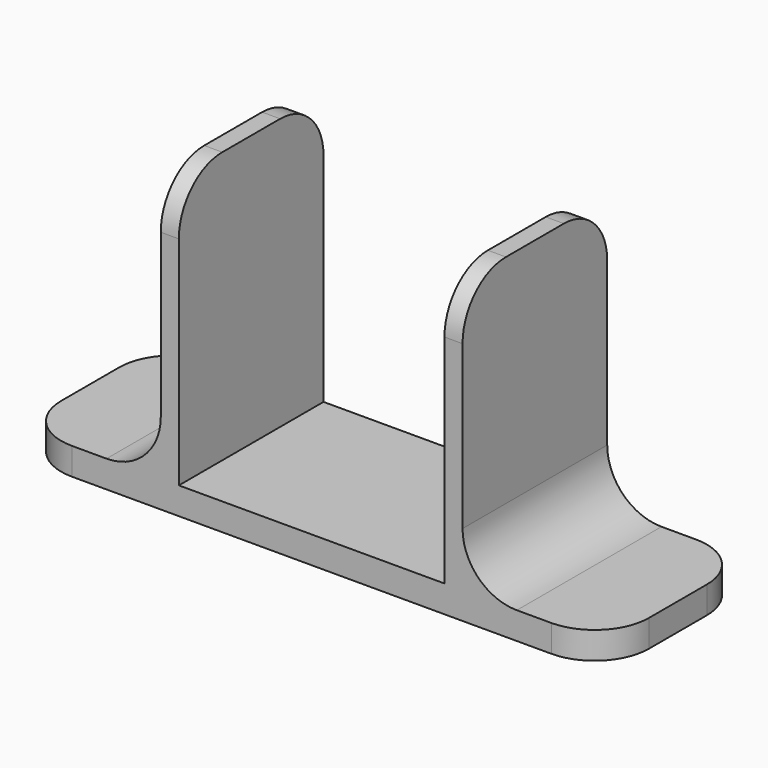
from build123d import *

# Parameters (mm, degrees)
F0_W     = 82.55
F0_H     = 25.4
F1_DEPTH = 3.81
F2_W     = 2.54
F2_H     = 25.4
F3_DEPTH = 38.1
F4_R     = 7.62


with BuildPart() as f1:
    # F0 (on Top) → F1 (new body)
    with BuildSketch(Plane.XY):
        Rectangle(F0_W, F0_H)
    extrude(amount=F1_DEPTH)

    # F2 (on face) → F3 (join)
    with BuildSketch(Plane.XY.offset(3.81)):
        with Locations((-19.923125, 0)):
            Rectangle(F2_W, F2_H)
        with Locations((19.923125, 0)):
            Rectangle(F2_W, F2_H)
    extrude(amount=F3_DEPTH)

    # F4
    f4_edges = [f1.edges().sort_by_distance(p)[0] for p in [
        (-41.275, 12.7, 1.905),
        (-41.275, -12.7, 1.905),
        (41.275, 12.7, 1.905),
        (41.275, -12.7, 1.905),
        (-21.193125, 0, 3.81),
        (21.193125, 0, 3.81),
        (19.923125, 12.7, 41.91),
        (-19.923125, 12.7, 41.91),
        (-19.923125, -12.7, 41.91),
        (19.923125, -12.7, 41.91),
    ]]
    fillet(f4_edges, radius=F4_R)


solid = f1.part
